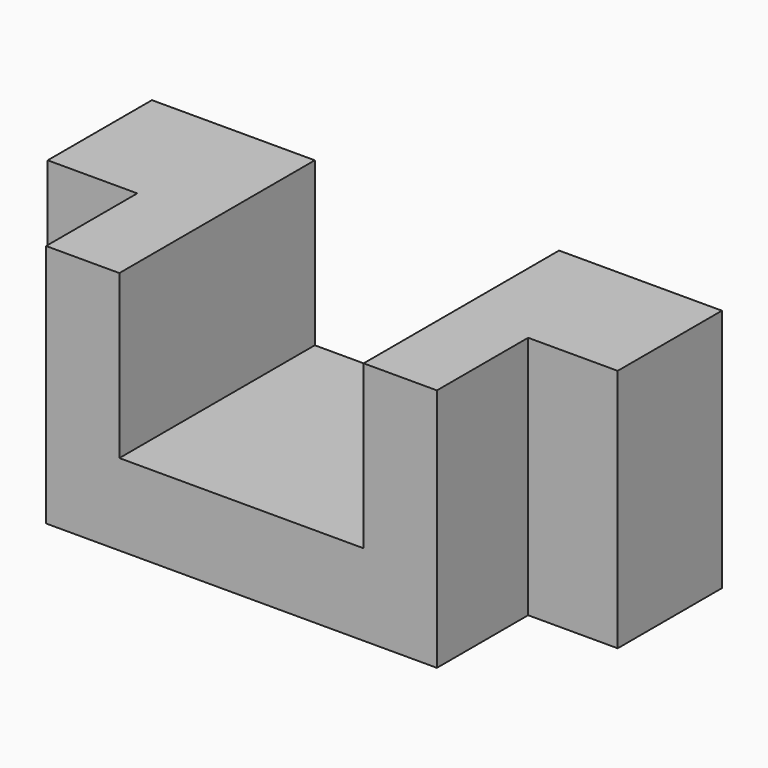
from build123d import *

# Parameters (mm, degrees)
F0_W     = 30
F0_H     = 30
F1_DEPTH = 10
F2_DEPTH = 30


with BuildPart() as f1:
    # F0 (on Top) → F1 (new body)
    with BuildSketch(Plane.XY):
        with Locations((-29.82143, -25.982142)):
            Rectangle(F0_W, F0_H)
    extrude(amount=F1_DEPTH)

    # F0 (on Top) → F2 (join)
    with BuildSketch(Plane.XY):
        Polygon((-53.82143, -26.982142), (-53.82143, -40.982142), (-44.82143, -40.982142), (-44.82143, -10.982142), (-64.82143, -10.982142), (-64.82143, -26.982142), align=None)
        Polygon((-14.82143, -10.982142), (-14.82143, -40.982142), (-5.82143, -40.982142), (-5.82143, -26.982142), (5.17857, -26.982142), (5.17857, -10.982142), align=None)
    extrude(amount=F2_DEPTH)


solid = f1.part
